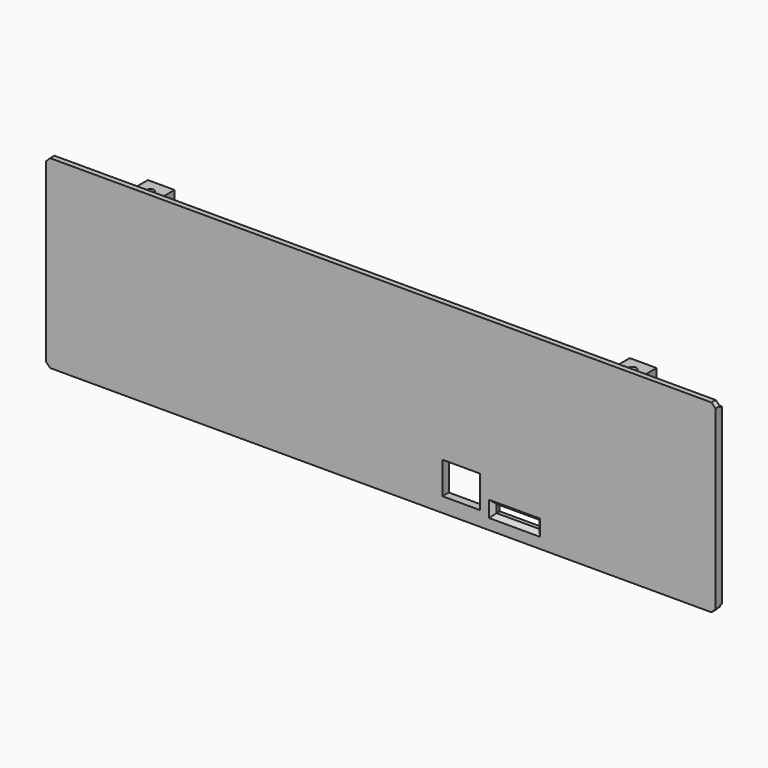
from build123d import *

# Parameters (mm, degrees)
SKETCH006_W     = 250
SKETCH006_H     = 65
PAD003_DEPTH    = 3
SKETCH014_W     = 14
SKETCH014_H     = 12
SKETCH014_W_2   = 16
SKETCH014_H_2   = 3
POCKET006_DEPTH = 5
SKETCH029_W     = 10
SKETCH029_H     = 8
PAD010_DEPTH    = 10
SKETCH034_W     = 10
SKETCH034_H     = 8
PAD012_DEPTH    = 10
SKETCH038_R     = 1.496657
SKETCH038_R_2   = 1.36472
POCKET040_DEPTH = 11
SKETCH030_R     = 1.4
POCKET041_DEPTH = 14
SKETCH041_W     = 210
SKETCH041_H     = 4
PAD022_DEPTH    = 7
SKETCH042_W     = 2
SKETCH042_H     = 2
PAD023_DEPTH    = 250
CHAMFER036_SIZE = 1.5


with BuildPart() as part:
    # Sketch006 → Pad003 (new body)
    with BuildSketch(Plane.XZ):
        Rectangle(SKETCH006_W, SKETCH006_H)
    extrude(amount=PAD003_DEPTH)

    # Sketch014 (on Face6 of Pad003) → Pocket006 (cut)
    with BuildSketch(Plane.XZ.offset(3)):
        with Locations((30, -23)):
            Rectangle(SKETCH014_W, SKETCH014_H)
        with Locations((50, -27.5)):
            Rectangle(SKETCH014_W_2, SKETCH014_H_2)
    extrude(amount=-POCKET006_DEPTH, mode=Mode.SUBTRACT)

    # Sketch029 (on Face1 of Pocket006) → Pad010 (join)
    with BuildSketch(Plane(origin=(0, 0, 32.5), x_dir=(-1, 0, 0), z_dir=(0, 0, 1))):
        with Locations((-90, -3)):
            Rectangle(SKETCH029_W, SKETCH029_H)
        with Locations((90, -3)):
            Rectangle(SKETCH029_W, SKETCH029_H)
    extrude(amount=-PAD010_DEPTH)

    # Sketch034 → Pad012 (join)
    with BuildSketch(Plane(origin=(0, 0, -32.5), x_dir=(1, 0, 0), z_dir=(0, 0, -1))):
        with Locations((-20, -3)):
            Rectangle(SKETCH034_W, SKETCH034_H)
        with Locations((-90, -3)):
            Rectangle(SKETCH034_W, SKETCH034_H)
    extrude(amount=-PAD012_DEPTH)

    # Sketch038 (on Face30 of Pad012) → Pocket040 (cut)
    with BuildSketch(Plane(origin=(0, 0, 32.5), x_dir=(-1, 0, 0), z_dir=(0, 0, 1))):
        with Locations((-90, -2)):
            Circle(SKETCH038_R)
        with Locations((90, -2)):
            Circle(SKETCH038_R_2)
    extrude(amount=-POCKET040_DEPTH, mode=Mode.SUBTRACT)

    # Sketch030 → Pocket041 (cut)
    with BuildSketch(Plane(origin=(0, 0, -32.5), x_dir=(1, 0, 0), z_dir=(0, 0, -1))):
        with Locations((-20, -2)):
            Circle(SKETCH030_R)
        with Locations((-90, -2)):
            Circle(SKETCH030_R)
    extrude(amount=-POCKET041_DEPTH, mode=Mode.SUBTRACT)

    # Sketch041 → Pad022 (join)
    with BuildSketch(Plane(origin=(0, 0, 0), x_dir=(1, 0, 0), z_dir=(0, 1, 0))):
        with Locations((0, 0.5)):
            Rectangle(SKETCH041_W, SKETCH041_H)
    extrude(amount=PAD022_DEPTH)

    # Sketch042 → Pad023 (join)
    with BuildSketch(Plane(origin=(-125, 0, 0), x_dir=(0, 0, -1), z_dir=(-1, 0, 0))):
        with Locations((33.5, 2)):
            Rectangle(SKETCH042_W, SKETCH042_H)
    pad023 = extrude(amount=-PAD023_DEPTH)

    # Mirrored007: Pad023 across Sketch042 V_Axis
    add(pad023.mirror(Plane(origin=(-125, 0, 0), x_dir=(-1, 0, 0), z_dir=(0, 0, -1))))

    # Chamfer036
    chamfer036_edges = [part.edges().sort_by_distance(p)[0] for p in [
        (50, -3, -26),
        (58, -3, -27.5),
        (42, -3, -27.5),
        (50, -3, -29),
        (125, -2, -34.5),
        (125, -2, 34.5),
        (-125, -2, 34.5),
        (-125, -2, -34.5),
    ]]
    chamfer(chamfer036_edges, length=CHAMFER036_SIZE)


with BuildPart() as part_1:
    # Body002 placement: moved
    add(part.part.moved(Location((0, -77, 0))))


solid = part_1.part
